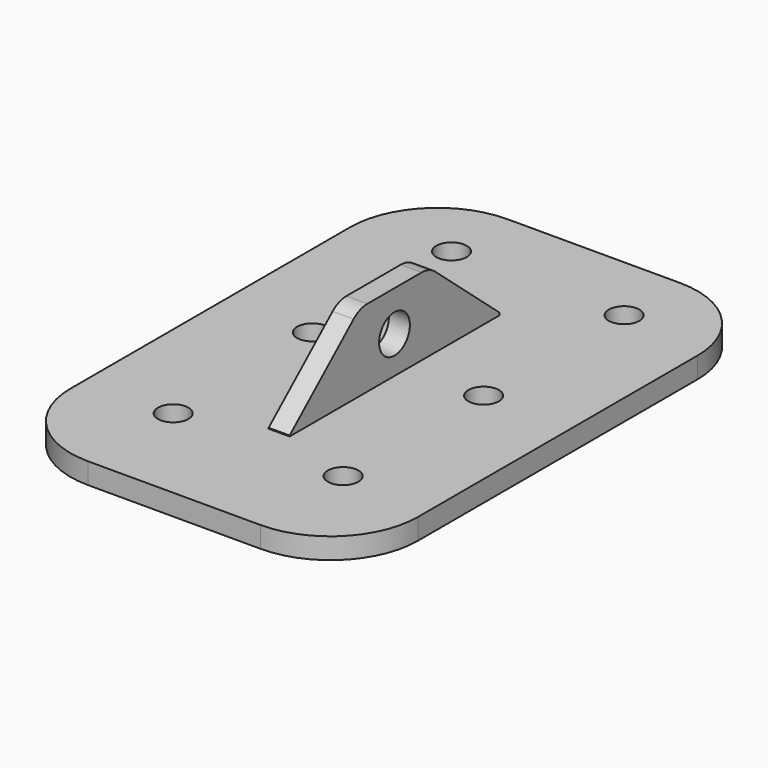
from build123d import *

# Parameters (mm, degrees)
F1_W     = 99.3970142677
F1_H     = 300
F1_R     = 8.75
F2_DEPTH = 12
F4_DEPTH = 6
F6_D     = 22
F8_R     = 50
F9_R     = 15


with BuildPart() as f2:
    # F1 (on face) → F2 (new body)
    with BuildSketch(Plane.XY):
        with Locations((-49.6985071339, 12.607654488)):
            Rectangle(F1_W, F1_H)
        with Locations((-48.6155549591, -77.3908188095)):
            Circle(F1_R, mode=Mode.SUBTRACT)
        with Locations((-49.0062846134, 22.6084178392)):
            Circle(F1_R, mode=Mode.SUBTRACT)
        with Locations((-49.3970142677, 122.607654488)):
            Circle(F1_R, mode=Mode.SUBTRACT)
    extrude(amount=F2_DEPTH)

    # F3 (on Right) → F4 (join)
    with BuildSketch(Plane.YZ):
        Polygon((-62.392345512, 12.4983141385), (-62.392345512, 0), (87.607654488, 0), (87.607654488, 13.4828369309), (37.607654488, 56.2372539129), (-12.392345512, 56.2372539129), align=None)
    extrude(amount=-F4_DEPTH)

    # F6 (through all)
    with Locations(Plane.YZ):
        with Locations((12.607654488, 33.2372539129)):
            Hole(F6_D / 2)

    # F7: F2 across face


with BuildPart() as f2_1:
    add(f2.part)
    add(f2.part.mirror(Plane(origin=(0, 12.7942838573, 18.839447443), x_dir=(0, 1, 0), z_dir=(1, 0, 0))))

    # F8
    f8_edges = [f2_1.edges().sort_by_distance(p)[0] for p in [
        (-99.397014, 162.607654, 6),
        (99.397014, 162.607654, 6),
        (99.397014, -137.392346, 6),
        (-99.397014, -137.392346, 6),
    ]]
    fillet(f8_edges, radius=F8_R)

    # F9
    f9_edges = [f2_1.edges().sort_by_distance(p)[0] for p in [
        (0, 37.607654, 56.237254),
        (0, -12.392346, 56.237254),
    ]]
    fillet(f9_edges, radius=F9_R)


solid = f2_1.part
